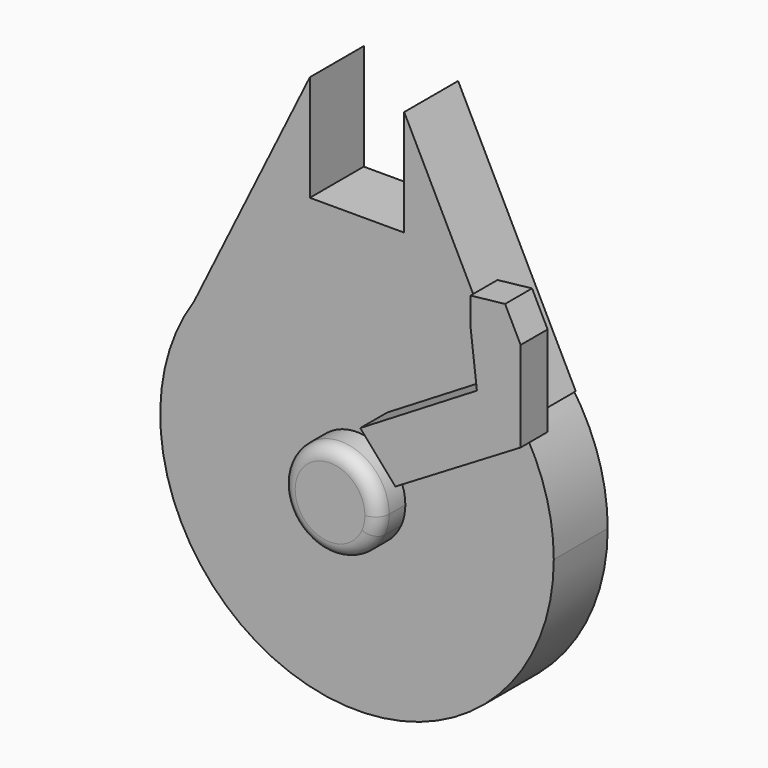
from build123d import *

# Parameters (mm, degrees)
F1_DEPTH = 12.7
F3_DEPTH = 6.35
F4_R     = 2.54


with BuildPart() as f1:
    # F0 (on Front) → F1 (new body)
    with BuildSketch(Plane.XZ):
        with BuildLine():
            Line((-8.89, 0), (-8.89, 35.995271902))
            ThreePointArc((-8.89, 35.995271902), (-21.2029287752, 30.4159088415), (-30.6973562447, 20.7933647802))
            ThreePointArc((-30.6973562447, 20.7933647802), (-10.8749915983, -35.4461035522), (37.0768350766, 0))
            ThreePointArc((37.0768350766, 0), (35.3625750984, 11.1436072124), (30.3783139408, 21.256757547))
            Line((30.3783139408, 21.256757547), (8.89, 35.995271902))
            ThreePointArc((8.89, 35.995271902), (8.8799379581, 35.9977555017), (8.8698752224, 36.0002362886))
            Line((8.8698752224, 36.0002362886), (8.8698752224, 0))
            Line((8.8698752224, 0), (-8.89, 0))
        make_face()
        with BuildLine():
            ThreePointArc((-30.6973562447, 20.7933647802), (-21.2029287752, 30.4159088415), (-8.89, 35.995271902))
            Line((-8.89, 35.995271902), (-8.89, 45.0685620308))
            Line((-8.89, 45.0685620308), (-8.89, 65.0674526496))
            Line((-8.89, 65.0674526496), (-30.6973562447, 20.7933647802))
        make_face()
        with BuildLine():
            Line((-8.89, 45.0685620308), (-8.89, 35.995271902))
            ThreePointArc((-8.89, 35.995271902), (-0.010364022, 37.0768336281), (8.8698752224, 36.0002362886))
            Line((8.8698752224, 36.0002362886), (8.8698752224, 45.0685620308))
            Line((8.8698752224, 45.0685620308), (-8.89, 45.0685620308))
        make_face()
        with BuildLine():
            ThreePointArc((8.8698752224, 36.0002362886), (-0.010364022, 37.0768336281), (-8.89, 35.995271902))
            Line((-8.89, 35.995271902), (-8.89, 0))
            Line((-8.89, 0), (8.8698752224, 0))
            Line((8.8698752224, 0), (8.8698752224, 36.0002362886))
        make_face()
        with BuildLine():
            Line((8.89, 65.0674526496), (8.89, 35.995271902))
            ThreePointArc((8.89, 35.995271902), (20.9715538596, 30.5758994636), (30.3783139408, 21.256757547))
            Line((30.3783139408, 21.256757547), (31.053926761, 20.7933647802))
            Line((31.053926761, 20.7933647802), (8.89, 65.0674526496))
        make_face()
        with BuildLine():
            ThreePointArc((30.3783139408, 21.256757547), (20.9715538596, 30.5758994636), (8.89, 35.995271902))
            Line((8.89, 35.995271902), (30.3783139408, 21.256757547))
        make_face()
    extrude(amount=F1_DEPTH)

    # F2 (on face) → F3 (join)
    with BuildSketch(Plane.XZ.offset(12.7)):
        with BuildLine():
            Line((8.3370473279, -3.6677770405), (9.1081802006, 0))
            ThreePointArc((9.1081802006, 0), (-8.9133124025, 1.8739820121), (8.3370473279, -3.6677770405))
        make_face()
        with BuildLine():
            ThreePointArc((8.3370473279, -3.6677770405), (8.9133124025, -1.8739820121), (9.1081802006, 0))
            Line((9.1081802006, 0), (8.3370473279, -3.6677770405))
        make_face()
        Polygon((27.6729999866, 27.547016816), (5.6928377599, 14.1950091347), (12.3025802895, 6.641021464), (35.9087884426, 20.7933647802), align=None)
        Polygon((26.466306299, 37.8012210131), (27.6729999866, 27.547016816), (35.9087884426, 20.7933647802), (35.9087884426, 37.8012210131), (32.9793743131, 43.6529430466), (26.466306299, 42.9304087149), align=None)
    extrude(amount=F3_DEPTH)

    # F4
    f4_edges = [f1.edges().sort_by_distance(p)[0] for p in [
        (-8.337047, -19.05, 3.667777),
    ]]
    fillet(f4_edges, radius=F4_R)


solid = f1.part
